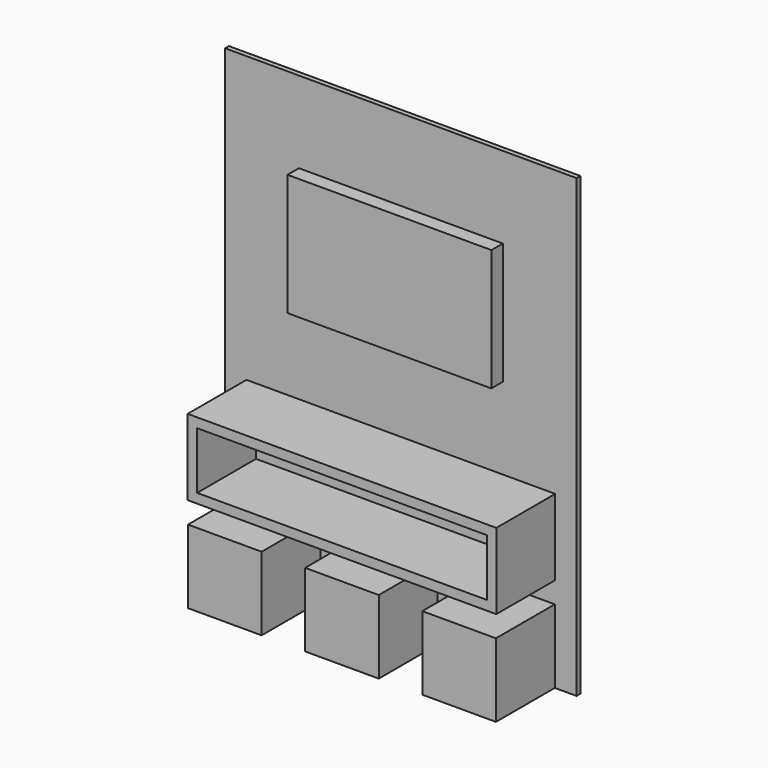
from build123d import *

# Parameters (mm, degrees)
F0_W     = 1879.6
F0_H     = 2438.4
F1_DEPTH = 25.4
F2_W     = 1090.2872387474
F2_H     = 651.2862174379
F3_DEPTH = 76.2
F2_W_2   = 393.7
F2_H_2   = 393.7
F4_DEPTH = 393.7
F2_W_3   = 1651
F2_H_3   = 406.4
F2_W_4   = 1549.4
F2_H_4   = 304.8
F5_DEPTH = 393.7


with BuildPart() as f1:
    # F0 (on Front) → F1 (new body)
    with BuildSketch(Plane.XZ):
        Rectangle(F0_W, F0_H)
    extrude(amount=F1_DEPTH)


with BuildPart() as f3:
    # F2 (on face) → F3 (new body)
    with BuildSketch(Plane.XZ.offset(25.4)):
        with Locations((0, 457.2)):
            Rectangle(F2_W, F2_H)
    extrude(amount=F3_DEPTH)


with BuildPart() as f4:
    # F2 (on face) → F4 (new body)
    with BuildSketch(Plane.XZ.offset(25.4)):
        with Locations((-626.5333333333, -1022.35)):
            Rectangle(F2_W_2, F2_H_2)
    extrude(amount=F4_DEPTH)


with BuildPart() as f4b:
    # F2 (on face) → F4, piece 2 (new body)
    with BuildSketch(Plane.XZ.offset(25.4)):
        with Locations((0, -1022.35)):
            Rectangle(F2_W_2, F2_H_2)
    extrude(amount=F4_DEPTH)


with BuildPart() as f4c:
    # F2 (on face) → F4, piece 3 (new body)
    with BuildSketch(Plane.XZ.offset(25.4)):
        with Locations((626.5333333333, -1022.35)):
            Rectangle(F2_W_2, F2_H_2)
    extrude(amount=F4_DEPTH)


with BuildPart() as f5:
    # F2 (on face) → F5 (new body)
    with BuildSketch(Plane.XZ.offset(25.4)):
        with Locations((0, -508)):
            Rectangle(F2_W_3, F2_H_3)
        with Locations((0, -508)):
            Rectangle(F2_W_4, F2_H_4, mode=Mode.SUBTRACT)
    extrude(amount=F5_DEPTH)


solid = Compound([f1.part, f3.part, f4.part, f4b.part, f4c.part, f5.part])
